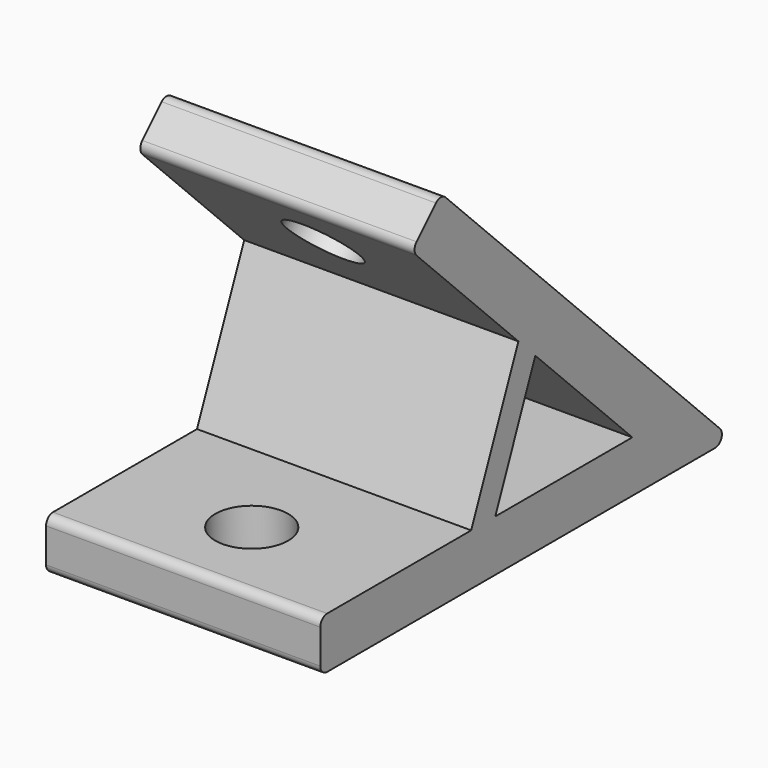
from build123d import *

# Parameters (mm, degrees)
PAD_DEPTH       = 16
SKETCH001_R     = 4.25
POCKET_DEPTH    = 6
SKETCH002_R     = 4.25
POCKET001_DEPTH = 6
FILLET_R        = 1


with BuildPart() as part:
    # Sketch → Pad (new body, symmetric)
    with BuildSketch(Plane.YZ):
        Polygon((-60, 0), (0, 0), (-42.4264068712, 42.4264068712), (-46.6690475583, 38.1837661841), (-31.1022907321, 22.6170093579), (-37.9852813742, 6), (-60, 6), align=None)
        Polygon((-28.627416998, 20.1421356237), (-34.4852813742, 6), (-14.4852813742, 6), align=None, mode=Mode.SUBTRACT)
    extrude(amount=PAD_DEPTH, both=True)

    # Sketch001 (on Face6 of Pad) → Pocket (cut)
    with BuildSketch(Plane(origin=(0, 0, 6), x_dir=(0, -1, 0), z_dir=(0, 0, 1))):
        with Locations((50, 0)):
            Circle(SKETCH001_R)
    extrude(amount=-POCKET_DEPTH, mode=Mode.SUBTRACT)

    # Sketch002 (on Face9 of Pocket) → Pocket001 (cut)
    with BuildSketch(Plane(origin=(0, -4.2426406871, -4.2426406871), x_dir=(0, 0.7071067812, -0.7071067812), z_dir=(0, -0.7071067812, -0.7071067812))):
        with Locations((-50, 0)):
            Circle(SKETCH002_R)
    extrude(amount=-POCKET001_DEPTH, mode=Mode.SUBTRACT)

    # Fillet
    fillet_edges = [part.edges().sort_by_distance(p)[0] for p in [
        (0, 0, 0),
        (0, -60, 0),
        (0, -60, 6),
        (0, -46.669048, 38.183766),
        (0, -42.426407, 42.426407),
    ]]
    fillet(fillet_edges, radius=FILLET_R)


solid = part.part
